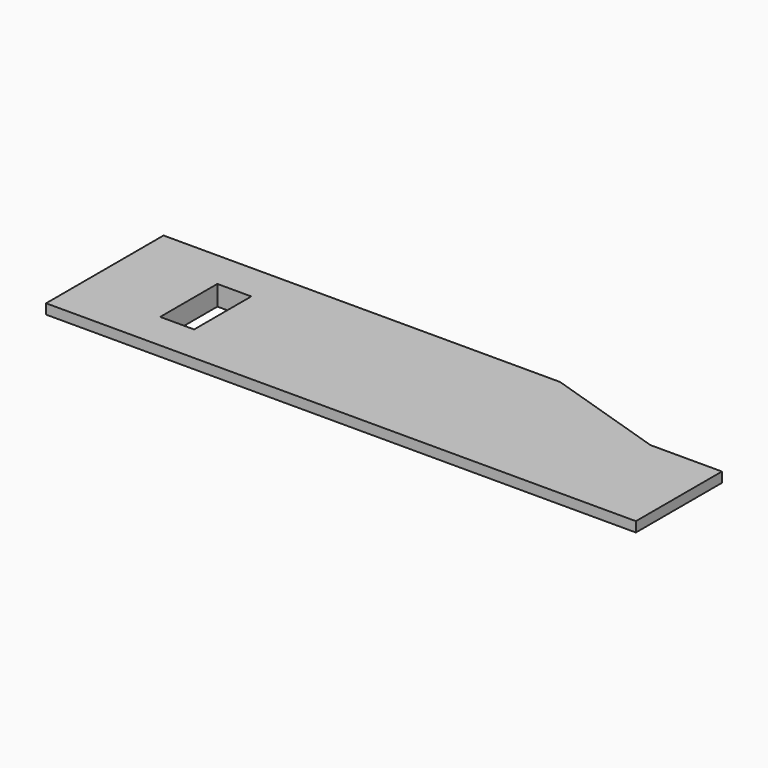
from build123d import *

# Parameters (mm, degrees)
F0_W     = 28.194
F0_H     = 10.4394
F0_W_2   = 2.413
F0_H_2   = 5.08
F0_W_3   = 5.08
F0_H_3   = 7.6454
F1_DEPTH = 0.7112
F2_W     = 2.413
F2_H     = 5.08
F3_DEPTH = 0.7112


with BuildPart() as f1:
    # F0 (on Top) → F1 (new body)
    with BuildSketch(Plane.XY):
        with Locations((14.097, 5.2197)):
            Rectangle(F0_W, F0_H)
        with Locations((7.1755, 5.2197)):
            Rectangle(F0_W_2, F0_H_2, mode=Mode.SUBTRACT)
        Polygon((28.194, 10.4394), (28.194, 0), (36.8554, 0), (36.8554, 7.6454), align=None)
        with Locations((39.3954, 3.8227)):
            Rectangle(F0_W_3, F0_H_3)
    extrude(amount=F1_DEPTH)

    # F2 (on face) → F3 (join)
    with BuildSketch(Plane(origin=(0, 0, 0), x_dir=(1, 0, 0), z_dir=(0, 0, -1))):
        Polygon((36.8554, -2.0447), (0, -2.0447), (0, -8.3947), (34.53257, -8.3947), (36.8554, -7.6454), align=None)
        with Locations((7.1755, -5.2197)):
            Rectangle(F2_W, F2_H, mode=Mode.SUBTRACT)
    extrude(amount=F3_DEPTH)


solid = f1.part
